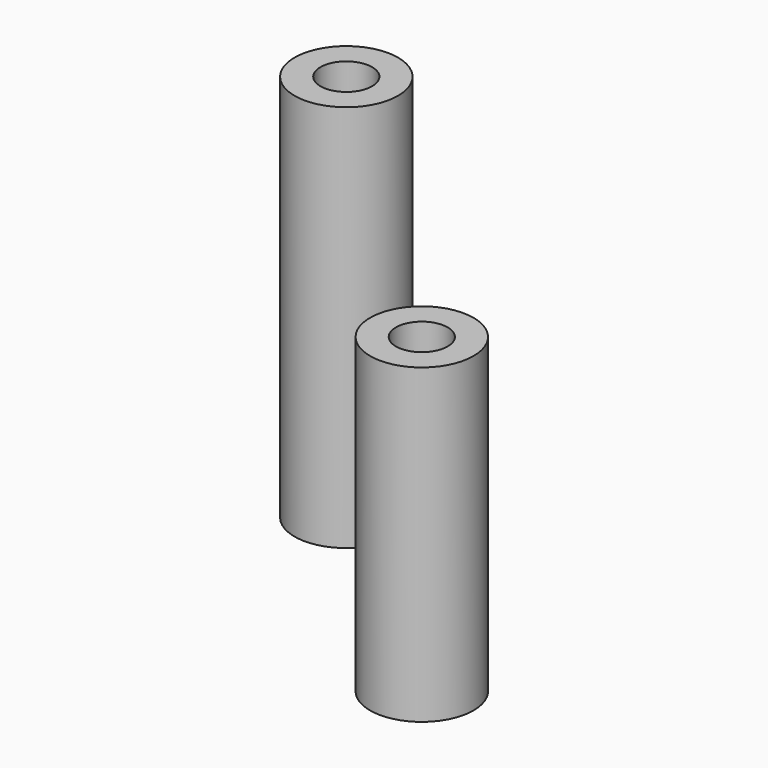
from build123d import *

# Parameters (mm, degrees)
F0_R        = 12.7
F0_R_2      = 6.35
F1_DEPTH    = 95.25
F2_DEPTH    = 31.75
F2_FACE_R   = 12.7
F2_FACE_R_2 = 6.35
F3_DEPTH    = 44.831


with BuildPart() as f1:
    # F0 (on Top) → F1 (new body)
    with BuildSketch(Plane.XY):
        with Locations((-56.362856, 47.294293)):
            Circle(F0_R)
        with Locations((-56.362856, 47.294293)):
            Circle(F0_R_2, mode=Mode.SUBTRACT)
    extrude(amount=F1_DEPTH)


with BuildPart() as f2:
    # F0 (on Top) → F2 (new body)
    with BuildSketch(Plane.XY):
        Circle(F0_R)
        Circle(F0_R_2, mode=Mode.SUBTRACT)
    extrude(amount=F2_DEPTH)

    # F2_face (on face) → F3 (join)
    with BuildSketch(Plane.XY.offset(31.75)):
        Circle(F2_FACE_R)
        Circle(F2_FACE_R_2, mode=Mode.SUBTRACT)
    extrude(amount=F3_DEPTH)


solid = Compound([f1.part, f2.part])
